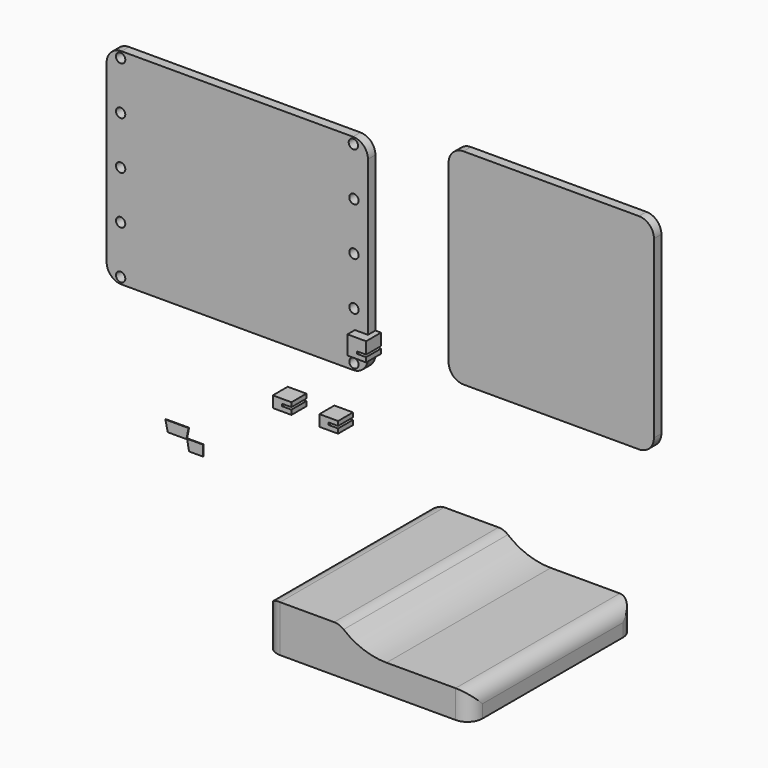
from build123d import *

# Parameters (mm, degrees)
F0_W      = 9.525
F0_H      = 69.85
F0_R      = 1.5875
F0_W_2    = 69.85
F1_DEPTH  = 3.175
F2_R      = 5.08
F3_W      = 69.85
F3_H      = 69.85
F4_DEPTH  = 3.175
F5_R      = 5.08
F7_DEPTH  = 69.85
F8_R      = 5.08
F10_DEPTH = 0.254
F12_DEPTH = 0.254
F14_DEPTH = 6.35
F16_DEPTH = 6.35


with BuildPart() as f1:
    # F0 (on Front) → F1 (new body)
    with BuildSketch(Plane.XZ):
        with Locations((-83.4562088089, 27.0643814001)):
            Rectangle(F0_W, F0_H)
        with Locations((-83.4562088089, -5.7016185999)):
            Circle(F0_R, mode=Mode.SUBTRACT)
        with Locations((-83.4562088089, 10.6813814001)):
            Circle(F0_R, mode=Mode.SUBTRACT)
        with Locations((-83.4562088089, 27.0643814001)):
            Circle(F0_R, mode=Mode.SUBTRACT)
        with Locations((-83.4562088089, 43.4473814001)):
            Circle(F0_R, mode=Mode.SUBTRACT)
        with Locations((-83.4562088089, 59.8303814001)):
            Circle(F0_R, mode=Mode.SUBTRACT)
        with Locations((-43.7687088089, 27.0643814001)):
            Rectangle(F0_W_2, F0_H)
        with Locations((-4.0812088089, 27.0643814001)):
            Rectangle(F0_W, F0_H)
        with Locations((-4.0812088089, -5.7016185999)):
            Circle(F0_R, mode=Mode.SUBTRACT)
        with Locations((-4.0812088089, 10.6813814001)):
            Circle(F0_R, mode=Mode.SUBTRACT)
        with Locations((-4.0812088089, 27.0643814001)):
            Circle(F0_R, mode=Mode.SUBTRACT)
        with Locations((-4.0812088089, 43.4473814001)):
            Circle(F0_R, mode=Mode.SUBTRACT)
        with Locations((-4.2786324712, 59.8289058444)):
            Circle(F0_R, mode=Mode.SUBTRACT)
    extrude(amount=F1_DEPTH)

    # F2
    f2_edges = [f1.edges().sort_by_distance(p)[0] for p in [
        (-88.218709, -1.5875, -7.860619),
        (0.681291, -1.5875, -7.860619),
        (0.681291, -1.5875, 61.989381),
        (-88.218709, -1.5875, 61.989381),
    ]]
    fillet(f2_edges, radius=F2_R)


with BuildPart() as f4:
    # F3 (on Front) → F4 (new body)
    with BuildSketch(Plane.XZ):
        with Locations((63.0412368688, 34.925)):
            Rectangle(F3_W, F3_H)
    extrude(amount=F4_DEPTH)

    # F5
    f5_edges = [f4.edges().sort_by_distance(p)[0] for p in [
        (28.116237, -1.5875, 69.85),
        (28.116237, -1.5875, 0),
        (97.966237, -1.5875, 0),
        (97.966237, -1.5875, 69.85),
    ]]
    fillet(f5_edges, radius=F5_R)


with BuildPart() as f7:
    # F6 (on Front) → F7 (new body)
    with BuildSketch(Plane.XZ):
        with BuildLine():
            Line((19.0550971746, -41.0171044469), (19.0550971746, -56.8921044469))
            Line((19.0550971746, -56.8921044469), (88.9050971746, -56.8921044469))
            Line((88.9050971746, -56.8921044469), (88.9050971746, -47.3671044469))
            Line((88.9050971746, -47.3671044469), (60.3300971746, -47.3671044469))
            ThreePointArc((60.3300971746, -47.3671044469), (51.7811480433, -45.7207272752), (44.4550971746, -41.0171044469))
            Line((44.4550971746, -41.0171044469), (19.0550971746, -41.0171044469))
        make_face()
    extrude(amount=F7_DEPTH)

    # F8
    f8_edges = [f7.edges().sort_by_distance(p)[0] for p in [
        (19.055097, -34.925, -41.017104),
        (44.455097, -34.925, -41.017104),
        (88.905097, -34.925, -47.367104),
        (88.905097, 0, -52.129604),
        (19.055097, 0, -48.954604),
        (19.055097, -69.85, -48.954604),
        (88.905097, -69.85, -52.129604),
    ]]
    fillet(f8_edges, radius=F8_R)


with BuildPart() as f10:
    # F9 (on Front) → F10 (new body)
    with BuildSketch(Plane.XZ):
        Polygon((-70.5872430673, -45.403085649), (-69.733457911, -48.9525124431), (-63.383457911, -48.9525124431), (-62.7132430673, -45.403085649), align=None)
    extrude(amount=F10_DEPTH)


with BuildPart() as f12:
    # F11 (on Front) → F12 (new body)
    with BuildSketch(Plane.XZ):
        Polygon((-58.0156743526, -48.9407926798), (-63.3826851845, -48.9407926798), (-62.7155974507, -52.5220185518), (-58.0156743526, -52.5220185518), align=None)
    extrude(amount=-F12_DEPTH)


with BuildPart() as f14:
    # F13 (on Front) → F14 (new body)
    with BuildSketch(Plane.XZ):
        Polygon((-22.7977062657, -22.2139001109), (-29.1477062657, -22.2139001109), (-29.1477062657, -26.0239001109), (-22.7977062657, -26.0239001109), (-22.7977062657, -24.4512986392), (-25.9727062657, -24.4512986392), (-25.9727062657, -23.6941799521), (-22.7977062657, -23.6941799521), align=None)
    extrude(amount=F14_DEPTH)


with BuildPart() as f14b:
    # F13 (on Front) → F14, piece 2 (new body)
    with BuildSketch(Plane.XZ):
        Polygon((2.5977272727, 4.3127597036), (-3.7522727273, 4.3127597036), (-3.7522727273, -2.0372402964), (2.5977272727, -2.0372402964), (2.5977272727, -0.4646388247), (-0.5772727273, -0.4646388247), (-0.5772727273, 0.2924798623), (2.5977272727, 0.2924798623), align=None)
    extrude(amount=F14_DEPTH)


with BuildPart() as f16:
    # F15 (on Front) → F16 (new body)
    with BuildSketch(Plane.XZ):
        Polygon((2.5977272727, 4.3127597036), (-3.7522727273, 4.3127597036), (-3.7522727273, -2.0372402964), (2.5977272727, -2.0372402964), (2.5977272727, -0.4646388247), (-0.5772727273, -0.4646388247), (-0.5772727273, 0.2924798623), (2.5977272727, 0.2924798623), align=None)
    extrude(amount=F16_DEPTH)


with BuildPart() as f16b:
    # F15 (on Front) → F16, piece 2 (new body)
    with BuildSketch(Plane.XZ):
        Polygon((-6.9376189075, -22.6785389356), (-13.2876189075, -22.6785389356), (-13.2876189075, -26.4885389356), (-6.9376189075, -26.4885389356), (-6.9376189075, -24.9159374639), (-10.1126189075, -24.9159374639), (-10.1126189075, -24.1588187769), (-6.9376189075, -24.1588187769), align=None)
    extrude(amount=F16_DEPTH)


solid = Compound([f1.part, f4.part, f7.part, f10.part, f12.part, f14.part, f14b.part, f16.part, f16b.part])
